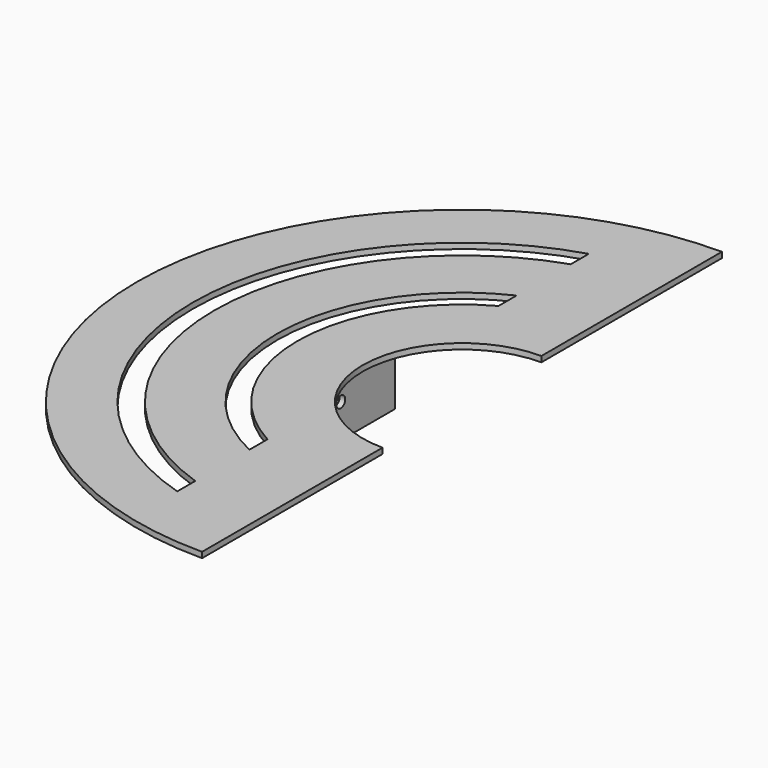
from build123d import *

# Parameters (mm, degrees)
F0_R     = 365.76
F0_R_2   = 111.76
F1_DEPTH = 6.35
F2_W     = 380.011261
F2_H     = 787.612766
F3_DEPTH = 6.351
F5_DEPTH = 6.351
F6_W     = 6.35
F6_H     = 152.4
F7_DEPTH = 76.2
F8_R     = 6.35
F9_DEPTH = 229.281121


with BuildPart() as f1:
    # F0 (on Top) → F1 (new body)
    with BuildSketch(Plane.XY):
        Circle(F0_R)
        Circle(F0_R_2, mode=Mode.SUBTRACT)
    extrude(amount=F1_DEPTH)

    # F2 (on face) → F3 (cut, through all)
    with BuildSketch(Plane.XY.offset(6.35)):
        with Locations((190.00563, 1.120374)):
            Rectangle(F2_W, F2_H)
    extrude(amount=-F3_DEPTH, mode=Mode.SUBTRACT)

    # F4 (on face) → F5 (cut, through all)
    with BuildSketch(Plane.XY.offset(6.35)):
        with BuildLine():
            ThreePointArc((-88.9, 289.56), (-302.899659, 0), (-88.9, -289.56))
            Line((-88.9, -289.56), (-88.9, -264.16))
            ThreePointArc((-88.9, -264.16), (-278.717986, 0), (-88.9, 264.16))
            Line((-88.9, 264.16), (-88.9, 289.56))
        make_face()
        with BuildLine():
            ThreePointArc((-88.9, 187.96), (-207.923475, 0), (-88.9, -187.96))
            Line((-88.9, -187.96), (-88.9, -162.56))
            ThreePointArc((-88.9, -162.56), (-185.28077, 0), (-88.9, 162.56))
            Line((-88.9, 162.56), (-88.9, 187.96))
        make_face()
    extrude(amount=-F5_DEPTH, mode=Mode.SUBTRACT)

    # F6 (on face) → F7 (join)
    with BuildSketch(Plane(origin=(0, 0, 0), x_dir=(1, 0, 0), z_dir=(0, 0, -1))):
        with Locations((-139.654879, 0)):
            Rectangle(F6_W, F6_H)
    extrude(amount=F7_DEPTH)

    # F8 (on face) → F9 (cut, through all)
    with BuildSketch(Plane.YZ.offset(-136.479879)):
        with Locations((0, -38.1)):
            Circle(F8_R)
    extrude(amount=-F9_DEPTH, mode=Mode.SUBTRACT)


solid = f1.part
